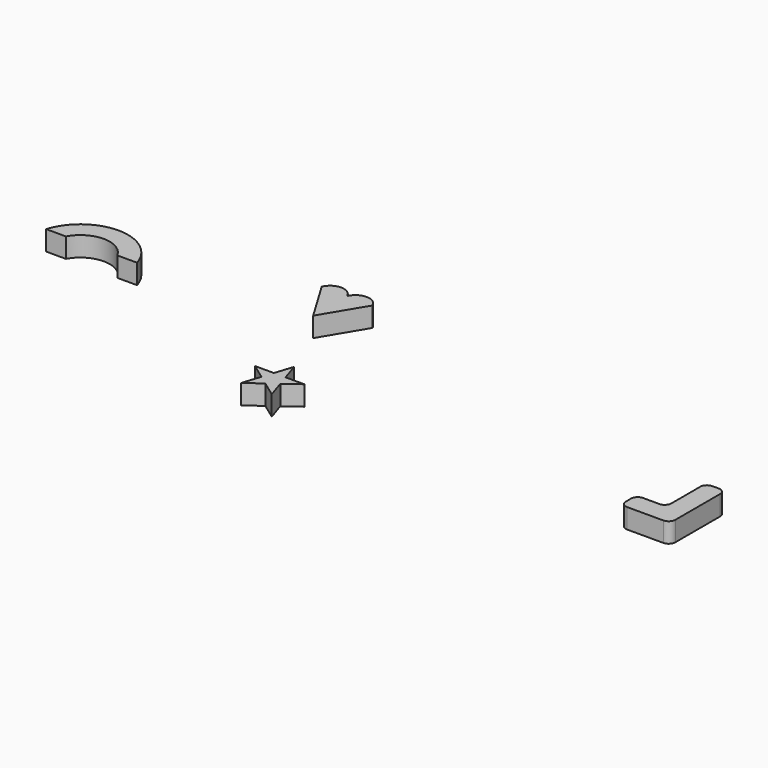
from build123d import *

# Parameters (mm, degrees)
F1_DEPTH = 2.54
F3_DEPTH = 2.54
F6_DEPTH = 2.54
F7_R     = 0.858494
F8_DEPTH = 2.54


with BuildPart() as f1:
    # F0 (on Top) → F1 (new body)
    with BuildSketch(Plane.XY):
        with BuildLine():
            Line((-55.78285, 37.539813), (-53.24285, 37.539813))
            ThreePointArc((-53.24285, 37.539813), (-59.085727, 41.854262), (-64.928604, 37.539813))
            Line((-64.928604, 37.539813), (-62.388604, 37.539813))
            ThreePointArc((-62.388604, 37.539813), (-59.085727, 39.501768), (-55.78285, 37.539813))
        make_face()
    extrude(amount=F1_DEPTH)


with BuildPart() as f3:
    # F2 (on Top) → F3 (new body)
    with BuildSketch(Plane.XY):
        Polygon((-26.830713, 29.716781), (-27.580229, 27.410009), (-30.005713, 27.410009), (-28.043455, 25.984345), (-28.792971, 23.677572), (-26.830713, 25.103236), (-24.868455, 23.677572), (-25.617971, 25.984345), (-23.655713, 27.410009), (-26.081197, 27.410009), align=None)
    extrude(amount=F3_DEPTH)


with BuildPart() as f6:
    # F5 (on Top) → F6 (new body)
    with BuildSketch(Plane.XY):
        Polygon((17.408729, 26.803145), (18.408854, 26.803145), (23.758729, 26.803145), (23.758729, 35.693145), (21.218729, 35.693145), (21.218729, 29.343145), (17.408729, 29.343145), align=None)
    extrude(amount=F6_DEPTH)

    # F7
    f7_edges = [f6.edges().sort_by_distance(p)[0] for p in [
        (17.408729, 29.343145, 1.27),
        (21.218729, 29.343145, 1.27),
        (17.408729, 26.803145, 1.27),
        (23.758729, 26.803145, 1.27),
        (23.758729, 35.693145, 1.27),
        (21.218729, 35.693145, 1.27),
    ]]
    fillet(f7_edges, radius=F7_R)


with BuildPart() as f8:
    # F4 (on Top) → F8 (new body)
    with BuildSketch(Plane.XY):
        with BuildLine():
            ThreePointArc((-32.28191, 45.042127), (-33.913835, 46.121607), (-35.545761, 45.042127))
            Line((-35.545761, 45.042127), (-32.28191, 39.59513))
            Line((-32.28191, 39.59513), (-29.01806, 45.042127))
            ThreePointArc((-29.01806, 45.042127), (-30.649985, 46.121607), (-32.28191, 45.042127))
        make_face()
    extrude(amount=F8_DEPTH)


solid = Compound([f1.part, f3.part, f6.part, f8.part])
